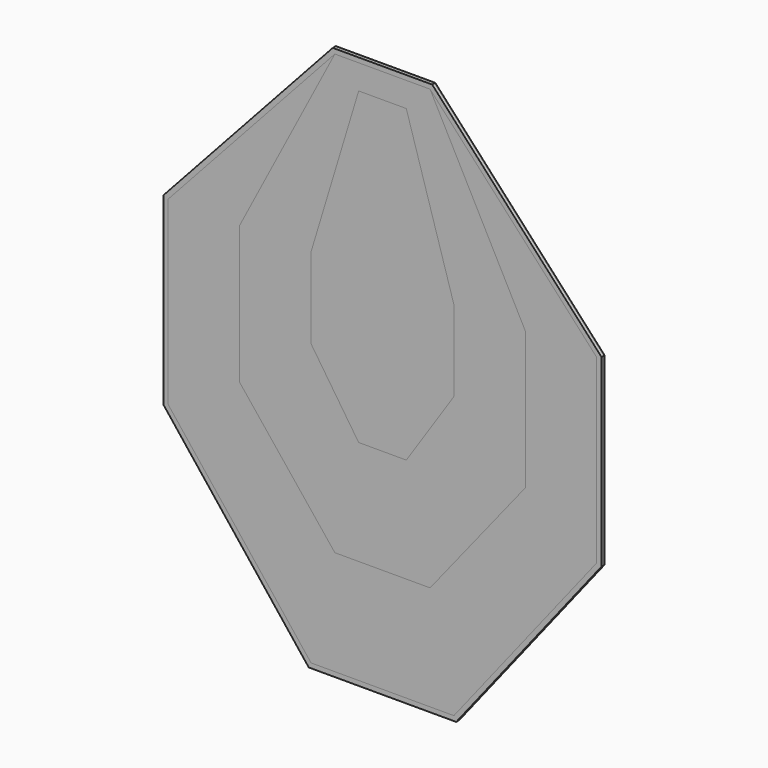
from build123d import *

# Parameters (mm, degrees)
F1_DEPTH  = 3
F3_DEPTH  = 3
F5_DEPTH  = 3
F7_DEPTH  = 3
F9_DEPTH  = 1
F11_DEPTH = 1


with BuildPart() as f1:
    # F0 (on Front) → F1 (new body)
    with BuildSketch(Plane.XZ):
        Polygon((25, -26), (-25, -26), (-75, -191), (-75, -276), (-25, -351), (25, -351), (75, -276), (75, -191), align=None)
    extrude(amount=-F1_DEPTH)


with BuildPart() as f3:
    # F2 (on Front) → F3 (new body)
    with BuildSketch(Plane.XZ):
        Polygon((50, 0), (0, 0), (-50, 0), (-150, -191), (-150, -336), (-50, -461), (50, -461), (150, -336), (150, -191), align=None)
        Polygon((-75, -276), (-75, -191), (-25, -26), (25, -26), (75, -191), (75, -276), (25, -351), (-25, -351), align=None, mode=Mode.SUBTRACT)
    extrude(amount=-F3_DEPTH)


with BuildPart() as f5:
    # F4 (on face) → F5 (new body)
    with BuildSketch(Plane.XZ):
        Polygon((-150, -191), (-50, 0), (-225, -191), (-225, -381), (-75, -571), (75, -571), (225, -381), (225, -191), (50, 0), (150, -191), (150, -336), (50, -461), (-50, -461), (-150, -336), align=None)
    extrude(amount=-F5_DEPTH)


with BuildPart() as f7:
    # F6 (on face) → F7 (new body)
    with BuildSketch(Plane.XZ):
        Polygon((52.200216, 5), (-52.200216, 5), (-230, -189.055764), (-230, -382.735812), (-77.42301, -576), (77.42301, -576), (230, -382.735812), (230, -189.055764), align=None)
        Polygon((-225, -191), (-50, 0), (50, 0), (225, -191), (225, -381), (75, -571), (-75, -571), (-225, -381), align=None, mode=Mode.SUBTRACT)
    extrude(amount=-F7_DEPTH)


with BuildPart() as f9:
    # F8 (on face) → F9 (new body)
    with BuildSketch(Plane(origin=(0, 3, 0), x_dir=(-1, 0, 0), z_dir=(0, 1, 0))):
        Polygon((225, -381), (225, -191), (50, 0), (-50, 0), (-225, -191), (-225, -381), (-75, -571), (75, -571), align=None)
    extrude(amount=F9_DEPTH)


with BuildPart() as f11:
    # F10 (on face) → F11 (new body)
    with BuildSketch(Plane(origin=(0, 3, 0), x_dir=(-1, 0, 0), z_dir=(0, 1, 0))):
        Polygon((230, -189.055764), (52.200216, 5), (-52.200216, 5), (-230, -189.055764), (-230, -382.735812), (-77.42301, -576), (77.42301, -576), (230, -382.735812), align=None)
        Polygon((-50, 0), (50, 0), (225, -191), (225, -381), (75, -571), (-75, -571), (-225, -381), (-225, -191), align=None, mode=Mode.SUBTRACT)
    extrude(amount=F11_DEPTH)


solid = Compound([f1.part, f3.part, f5.part, f7.part, f9.part, f11.part])
